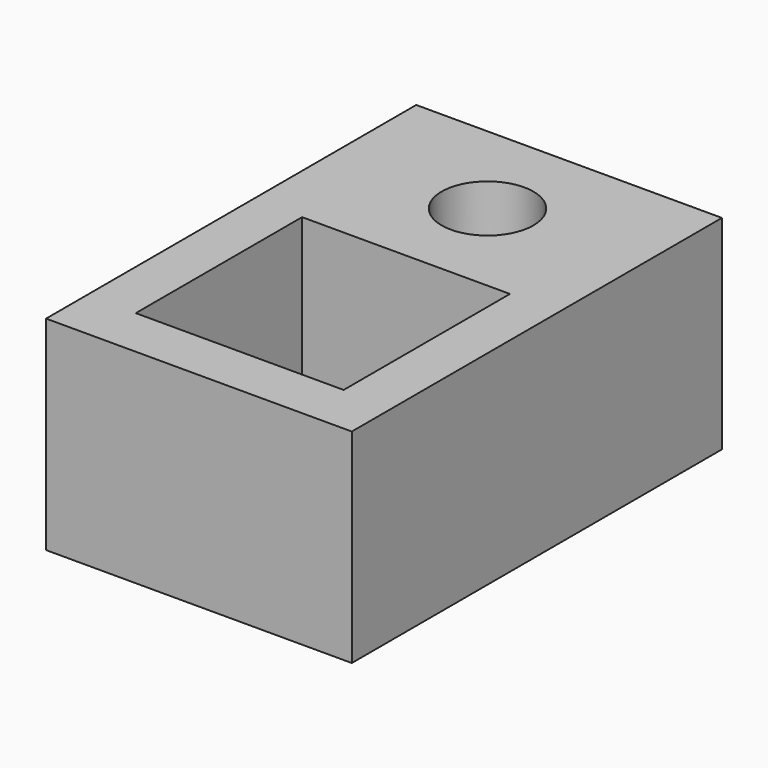
from build123d import *

# Parameters (mm, degrees)
SKETCH_W         = 30
SKETCH_H         = 45.4
SKETCH_W_2       = 20.4
SKETCH_H_2       = 20.4
PAD_DEPTH        = 20
HOLE_D           = 5.5
HOLE_CBORE_D     = 9
HOLE_CBORE_DEPTH = 15
CHAMFER_SIZE     = 1


with BuildPart() as part:
    # Sketch → Pad (new body)
    with BuildSketch(Plane.XY):
        with Locations((15, 22.7)):
            Rectangle(SKETCH_W, SKETCH_H)
        with Locations((15, 15.2)):
            Rectangle(SKETCH_W_2, SKETCH_H_2, mode=Mode.SUBTRACT)
    extrude(amount=PAD_DEPTH)

    # Hole (through all)
    with Locations(Plane.XY.offset(20)):
        with Locations((15, 35.4)):
            CounterBoreHole(HOLE_D / 2, HOLE_CBORE_D / 2, HOLE_CBORE_DEPTH)

    # Chamfer
    chamfer_edges = [part.edges().sort_by_distance(p)[0] for p in [
        (15, 25.4, 0),
        (25.2, 15.2, 0),
        (4.8, 15.2, 0),
        (15, 5, 0),
    ]]
    chamfer(chamfer_edges, length=CHAMFER_SIZE)


solid = part.part
